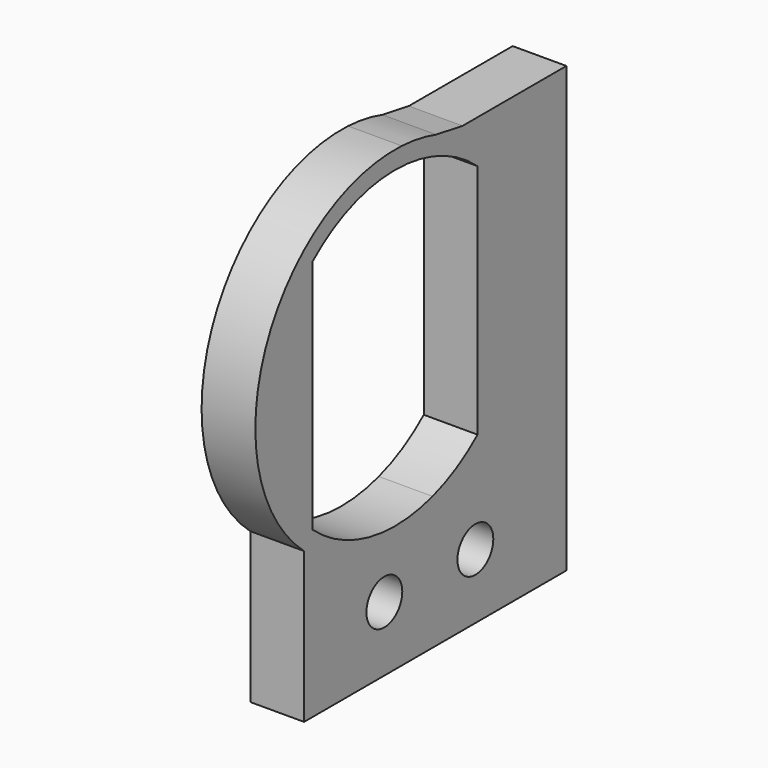
from build123d import *

# Parameters (mm, degrees)
F0_R     = 1.25
F1_DEPTH = 3


with BuildPart() as f1:
    # F0 (on Right) → F1 (new body)
    with BuildSketch(Plane.YZ):
        with BuildLine():
            Line((-11.9511362031, -5.3111244172), (-11.9511362031, -13.7053132072))
            Line((-11.9511362031, -13.7053132072), (6.35, -13.7053132072))
            Line((6.35, -13.7053132072), (6.35, -6.9134512067))
            Line((6.35, -6.9134512067), (-0.8936743198, -6.9134512067))
            Line((-0.8936743198, -6.9134512067), (-2.7451495133, -7.2361294001))
            ThreePointArc((-2.7451495133, -7.2361294001), (-3.9259868399, -7.5186674947), (-5.1327843279, -7.6522503891))
            ThreePointArc((-5.1327843279, -7.6522503891), (-8.7662829798, -7.1350102989), (-11.9511362031, -5.3111244172))
        make_face()
        with Locations((-6.35, -10.0884512067)):
            Circle(F0_R, mode=Mode.SUBTRACT)
        with Locations((0, -10.0884512067)):
            Circle(F0_R, mode=Mode.SUBTRACT)
        with BuildLine():
            ThreePointArc((-5.1327843279, 11.8253479758), (-14.6592384736, 5.6910873598), (-11.9511362031, -5.3111244172))
            ThreePointArc((-11.9511362031, -5.3111244172), (-8.7662829798, -7.1350102989), (-5.1327843279, -7.6522503891))
            Line((-5.1327843279, -7.6522503891), (-2.7451495133, -7.2361294001))
            ThreePointArc((-2.7451495133, -7.2361294001), (-1.3343098737, -6.6807990238), (-0.0266257976, -5.9134512067))
            Line((-0.0266257976, -5.9134512067), (-2.9884921599, -6.2646503302))
            ThreePointArc((-2.9884921599, -6.2646503302), (-7.3981085591, -6.4767044208), (-11.35, -4.5089041858))
            ThreePointArc((-11.35, -4.5089041858), (-14.35, 2.0865487933), (-11.35, 8.6820017725))
            ThreePointArc((-11.35, 8.6820017725), (-7.3981085591, 10.6498020075), (-2.9884921599, 10.4377479169))
            Line((-2.9884921599, 10.4377479169), (-0.0266257976, 10.0865487933))
            ThreePointArc((-0.0266257976, 10.0865487933), (-1.3343098737, 10.8538966105), (-2.7451495133, 11.4092269868))
            Line((-2.7451495133, 11.4092269868), (-5.1327843279, 11.8253479758))
        make_face()
        with BuildLine():
            ThreePointArc((-2.7451495133, 11.4092269868), (-3.9259868399, 11.6917650813), (-5.1327843279, 11.8253479758))
            Line((-5.1327843279, 11.8253479758), (-2.7451495133, 11.4092269868))
        make_face()
        with BuildLine():
            Line((-0.8936743198, -6.9134512067), (6.35, -6.9134512067))
            Line((6.35, -6.9134512067), (6.35, -3.945808849))
            Line((6.35, -3.945808849), (5.35, -3.945808849))
            Line((5.35, -3.945808849), (5.35, -5.9134512067))
            Line((5.35, -5.9134512067), (-0.0266257976, -5.9134512067))
            ThreePointArc((-0.0266257976, -5.9134512067), (-1.3343098737, -6.6807990238), (-2.7451495133, -7.2361294001))
            Line((-2.7451495133, -7.2361294001), (-0.8936743198, -6.9134512067))
        make_face()
        with BuildLine():
            Line((-0.8936743198, 11.0865487933), (-2.7451495133, 11.4092269868))
            ThreePointArc((-2.7451495133, 11.4092269868), (-1.3343098737, 10.8538966105), (-0.0266257976, 10.0865487933))
            Line((-0.0266257976, 10.0865487933), (5.35, 10.0865487933))
            Line((5.35, 10.0865487933), (5.35, 8.1189064356))
            Line((5.35, 8.1189064356), (6.35, 8.1189064356))
            Line((6.35, 8.1189064356), (6.35, 11.0865487933))
            Line((6.35, 11.0865487933), (-0.8936743198, 11.0865487933))
        make_face()
        Polygon((5.35, -3.945808849), (6.35, -3.945808849), (6.35, 2.0865487933), (6.35, 8.1189064356), (5.35, 8.1189064356), (5.35, 2.0865487933), align=None)
        with BuildLine():
            ThreePointArc((4.15, 2.0865487933), (3.0430000137, 6.5988708965), (-0.0266257976, 10.0865487933))
            Line((-0.0266257976, 10.0865487933), (-2.9884921599, 10.4377479169))
            ThreePointArc((-2.9884921599, 10.4377479169), (-1.328072511, 9.7228525804), (0.15, 8.6820017725))
            ThreePointArc((0.15, 8.6820017725), (2.364766161, 5.7093929799), (3.15, 2.0865487933))
            ThreePointArc((3.15, 2.0865487933), (2.364766161, -1.5362953932), (0.15, -4.5089041858))
            ThreePointArc((0.15, -4.5089041858), (-1.328072511, -5.5497549938), (-2.9884921599, -6.2646503302))
            Line((-2.9884921599, -6.2646503302), (-0.0266257976, -5.9134512067))
            ThreePointArc((-0.0266257976, -5.9134512067), (3.0430000137, -2.4257733099), (4.15, 2.0865487933))
        make_face()
        with BuildLine():
            Line((5.35, 10.0865487933), (-0.0266257976, 10.0865487933))
            ThreePointArc((-0.0266257976, 10.0865487933), (3.0430000137, 6.5988708965), (4.15, 2.0865487933))
            ThreePointArc((4.15, 2.0865487933), (3.0430000137, -2.4257733099), (-0.0266257976, -5.9134512067))
            Line((-0.0266257976, -5.9134512067), (5.35, -5.9134512067))
            Line((5.35, -5.9134512067), (5.35, -3.945808849))
            Line((5.35, -3.945808849), (5.35, 2.0865487933))
            Line((5.35, 2.0865487933), (5.35, 8.1189064356))
            Line((5.35, 8.1189064356), (5.35, 10.0865487933))
        make_face()
        with BuildLine():
            Line((-11.35, -4.5089041858), (-11.35, 8.6820017725))
            ThreePointArc((-11.35, 8.6820017725), (-14.35, 2.0865487933), (-11.35, -4.5089041858))
        make_face()
        with BuildLine():
            ThreePointArc((3.15, 2.0865487933), (2.364766161, 5.7093929799), (0.15, 8.6820017725))
            Line((0.15, 8.6820017725), (0.15, -4.5089041858))
            ThreePointArc((0.15, -4.5089041858), (2.364766161, -1.5362953932), (3.15, 2.0865487933))
        make_face()
        with BuildLine():
            Line((-2.7451495133, -7.2361294001), (-5.1327843279, -7.6522503891))
            ThreePointArc((-5.1327843279, -7.6522503891), (-3.9259868399, -7.5186674947), (-2.7451495133, -7.2361294001))
        make_face()
    extrude(amount=F1_DEPTH)


solid = f1.part
